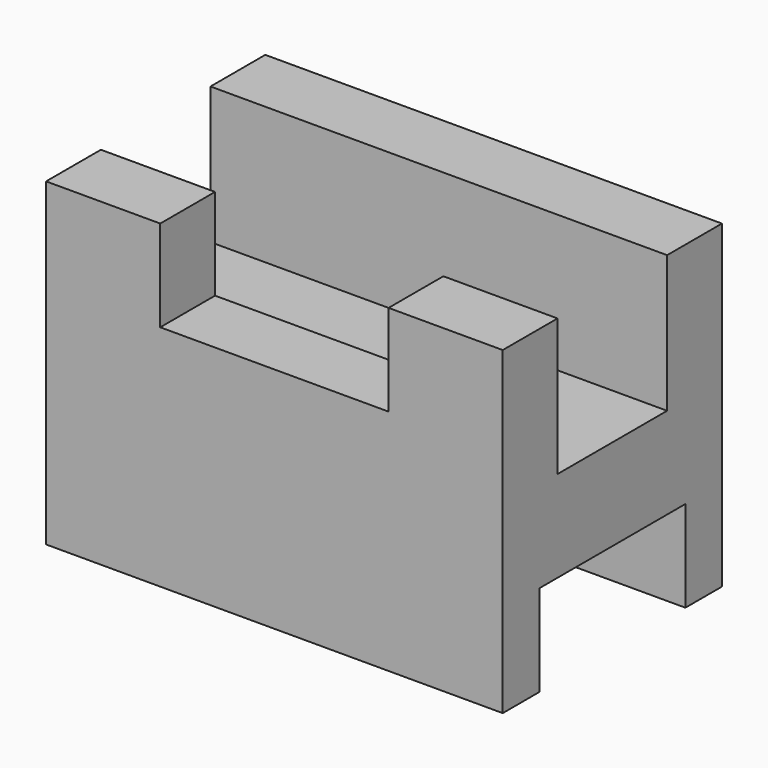
from build123d import *

# Parameters (mm, degrees)
F0_W     = 63.5
F0_H     = 44.45
F1_DEPTH = 38.1
F2_W     = 31.75
F2_H     = 12.7
F3_DEPTH = 9.525
F4_W     = 63.5
F4_H     = 19.05
F5_DEPTH = 19.05
F6_W     = 25.4
F6_H     = 12.7
F7_DEPTH = 63.501


with BuildPart() as f1:
    # F0 (on Front) → F1 (new body)
    with BuildSketch(Plane.XZ):
        Rectangle(F0_W, F0_H)
    extrude(amount=F1_DEPTH)

    # F2 (on face) → F3 (cut)
    with BuildSketch(Plane.XZ.offset(38.1)):
        with Locations((0, 15.875)):
            Rectangle(F2_W, F2_H)
    extrude(amount=-F3_DEPTH, mode=Mode.SUBTRACT)

    # F4 (on face) → F5 (cut)
    with BuildSketch(Plane.XY.offset(22.225)):
        with Locations((0, -19.05)):
            Rectangle(F4_W, F4_H)
    extrude(amount=-F5_DEPTH, mode=Mode.SUBTRACT)

    # F6 (on face) → F7 (cut, through all)
    with BuildSketch(Plane.YZ.offset(31.75)):
        with Locations((-19.05, -15.875)):
            Rectangle(F6_W, F6_H)
    extrude(amount=-F7_DEPTH, mode=Mode.SUBTRACT)


solid = f1.part
